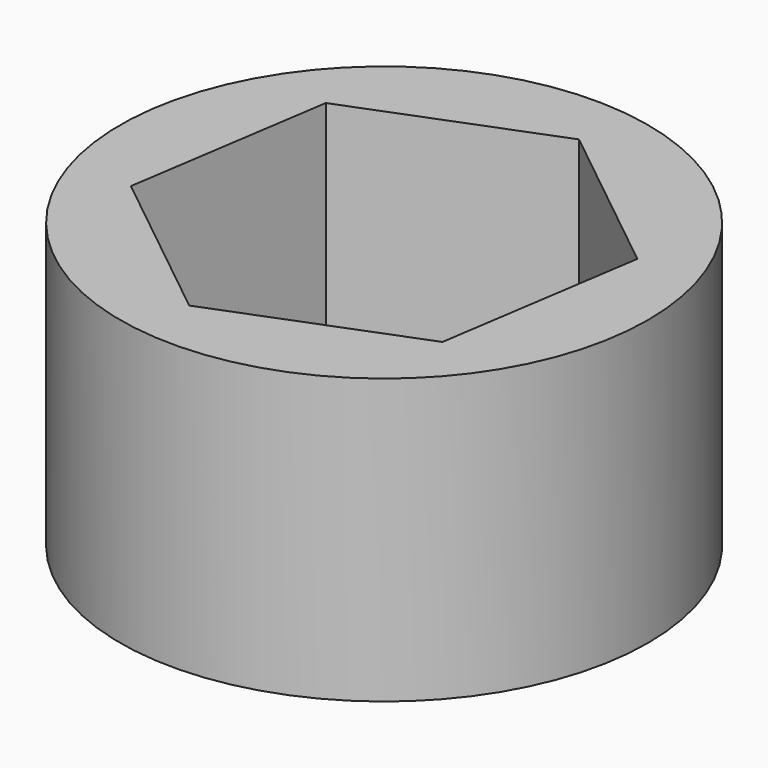
from build123d import *

# Parameters (mm, degrees)
F0_R     = 23.2102979376
F1_DEPTH = 25


with BuildPart() as f1:
    # F0 (on Top) → F1 (new body)
    with BuildSketch(Plane.XY):
        with Locations((-52.1805621684, 40.0566533208)):
            Circle(F0_R)
        with BuildLine():
            ThreePointArc((-35.2217002906, 46.6907966038), (-34.2858599457, 43.4322252204), (-33.970266913, 40.0566533208))
            ThreePointArc((-33.970266913, 40.0566533208), (-34.9955095005, 34.0326332268), (-37.9557946141, 28.6869197569))
            ThreePointArc((-37.9557946141, 28.6869197569), (-45.5464188854, 23.097791443), (-54.9146564918, 22.0527764739))
            ThreePointArc((-54.9146564918, 22.0527764739), (-63.5502957323, 25.8318857665), (-69.1394240461, 33.4225100378))
            ThreePointArc((-69.1394240461, 33.4225100378), (-70.1844390153, 42.7907476443), (-66.4053297227, 51.4263868847))
            ThreePointArc((-66.4053297227, 51.4263868847), (-58.8147054513, 57.0155151985), (-49.4464678449, 58.0605301677))
            ThreePointArc((-49.4464678449, 58.0605301677), (-40.8108286044, 54.2814208751), (-35.2217002906, 46.6907966038))
        make_face(mode=Mode.SUBTRACT)
        with BuildLine():
            Line((-49.4464678449, 58.0605301677), (-35.2217002906, 46.6907966038))
            ThreePointArc((-35.2217002906, 46.6907966038), (-40.8108286044, 54.2814208751), (-49.4464678449, 58.0605301677))
        make_face()
        with BuildLine():
            Line((-66.4053297227, 51.4263868847), (-49.4464678449, 58.0605301677))
            ThreePointArc((-49.4464678449, 58.0605301677), (-58.8147054513, 57.0155151985), (-66.4053297227, 51.4263868847))
        make_face()
        with BuildLine():
            ThreePointArc((-37.9557946141, 28.6869197569), (-34.9955095005, 34.0326332268), (-33.970266913, 40.0566533208))
            ThreePointArc((-33.970266913, 40.0566533208), (-34.2858599457, 43.4322252204), (-35.2217002906, 46.6907966038))
            Line((-35.2217002906, 46.6907966038), (-37.9557946141, 28.6869197569))
        make_face()
        with BuildLine():
            ThreePointArc((-54.9146564918, 22.0527764739), (-45.5464188854, 23.097791443), (-37.9557946141, 28.6869197569))
            Line((-37.9557946141, 28.6869197569), (-54.9146564918, 22.0527764739))
        make_face()
        with BuildLine():
            Line((-69.1394240461, 33.4225100378), (-66.4053297227, 51.4263868847))
            ThreePointArc((-66.4053297227, 51.4263868847), (-70.1844390153, 42.7907476443), (-69.1394240461, 33.4225100378))
        make_face()
        with BuildLine():
            ThreePointArc((-69.1394240461, 33.4225100378), (-63.5502957323, 25.8318857665), (-54.9146564918, 22.0527764739))
            Line((-54.9146564918, 22.0527764739), (-69.1394240461, 33.4225100378))
        make_face()
    extrude(amount=F1_DEPTH)


solid = f1.part
